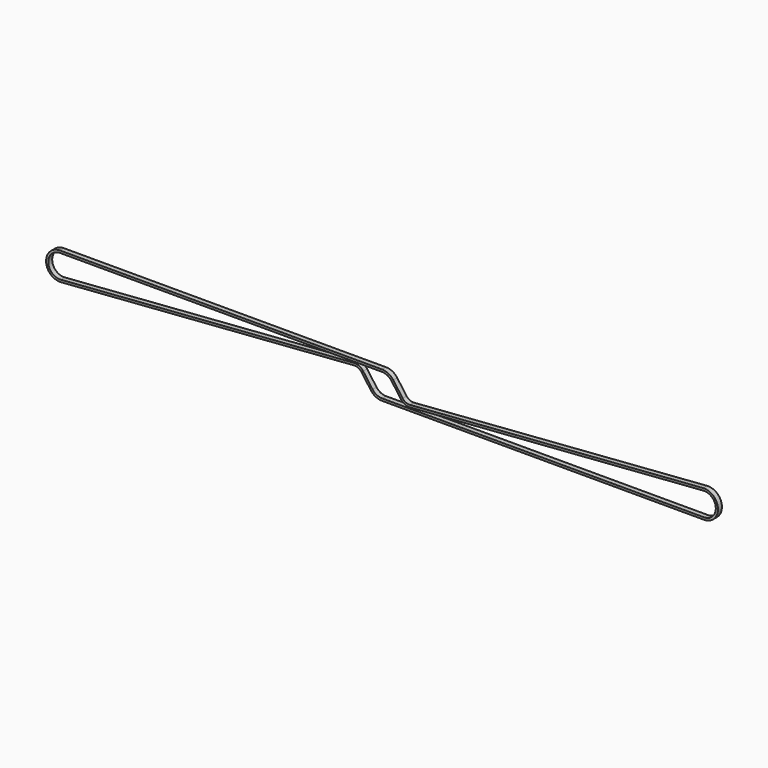
from build123d import *


with BuildPart() as f3:
    # F3: sweep along a path in F0
    with BuildLine(Plane.XZ) as f3_path:
        Line((587.249258, 23.234132), (51.292393, -17.151377))
        ThreePointArc((51.292393, -17.151377), (42.759993, -15.601997), (36.068, -10.086594))
        Line((36.068, -10.086594), (18.873, 13.663816))
        ThreePointArc((18.873, 13.663816), (10.595355, 20.751589), (0, 23.3))
        Line((0, 23.3), (-589, 23.3))
        ThreePointArc((-589, 23.3), (-612.283527, -0.87599), (-587.249258, -23.234132))
        Line((-587.249258, -23.234132), (-51.292393, 17.151377))
        ThreePointArc((-51.292393, 17.151377), (-42.759993, 15.601997), (-36.068, 10.086594))
        Line((-36.068, 10.086594), (-18.873, -13.663816))
        ThreePointArc((-18.873, -13.663816), (-10.595355, -20.751589), (0, -23.3))
        Line((0, -23.3), (589, -23.3))
        ThreePointArc((589, -23.3), (612.283527, 0.87599), (587.249258, 23.234132))
    # F2 (on face) → F3 (sweep)
    with BuildSketch(Plane(origin=(585.67457, 0, 44.131846), x_dir=(0, -1, 0), z_dir=(-0.997173, 0, -0.075139))):
        Polygon((4.5, -19.356957), (4.5, -18.956957), (-4.5, -18.956957), (-4.5, -20.06997), (-4.5, -22.956957), (4.5, -22.956957), align=None)
    sweep(path=f3_path.line)


solid = f3.part
